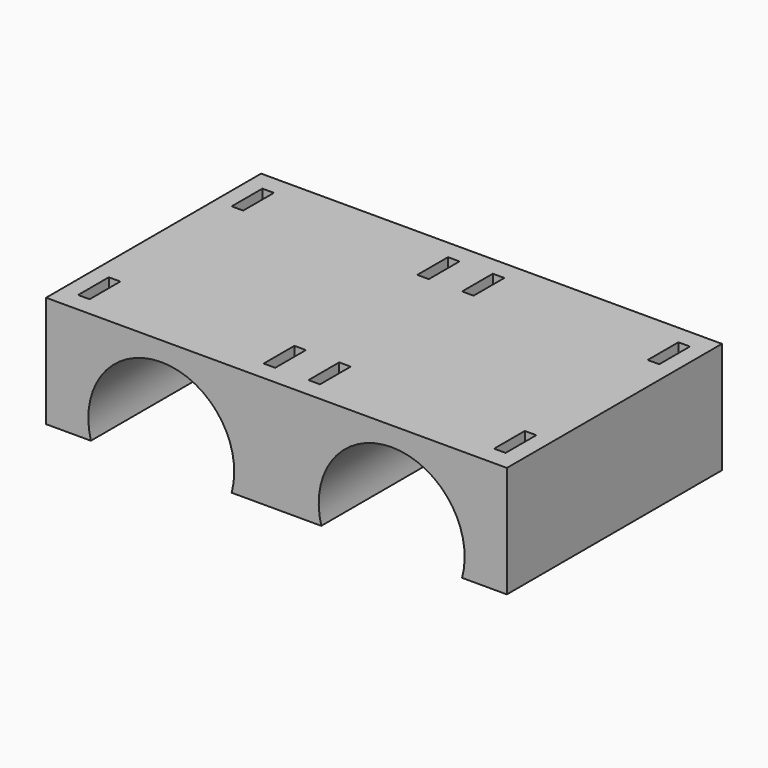
from build123d import *

# Parameters (mm, degrees)
F1_DEPTH = 70
F2_W     = 3
F2_H     = 10
F3_DEPTH = 29.001


with BuildPart() as f1:
    # F0 (on Front) → F1 (new body)
    with BuildSketch(Plane.XZ):
        with BuildLine():
            ThreePointArc((-48.330303, -5), (-30, 19), (-11.669697, -5))
            Line((-11.669697, -5), (0, -5))
            Line((0, -5), (11.669697, -5))
            ThreePointArc((11.669697, -5), (30, 19), (48.330303, -5))
            Line((48.330303, -5), (60, -5))
            Line((60, -5), (60, 24))
            Line((60, 24), (0, 24))
            Line((0, 24), (-60, 24))
            Line((-60, 24), (-60, -5))
            Line((-60, -5), (-48.330303, -5))
        make_face()
    extrude(amount=F1_DEPTH)

    # F2 (on face) → F3 (cut, through all)
    with BuildSketch(Plane(origin=(0, 0, -5), x_dir=(1, 0, 0), z_dir=(0, 0, -1))):
        with Locations((-54.165151, 60)):
            Rectangle(F2_W, F2_H)
        with Locations((-5.834849, 60)):
            Rectangle(F2_W, F2_H)
        with Locations((-5.834849, 10)):
            Rectangle(F2_W, F2_H)
        with Locations((-54.165151, 10)):
            Rectangle(F2_W, F2_H)
        with Locations((54.165151, 60)):
            Rectangle(F2_W, F2_H)
        with Locations((54.165151, 10)):
            Rectangle(F2_W, F2_H)
        with Locations((5.834849, 10)):
            Rectangle(F2_W, F2_H)
        with Locations((5.834849, 60)):
            Rectangle(F2_W, F2_H)
    extrude(amount=-F3_DEPTH, mode=Mode.SUBTRACT)


solid = f1.part
